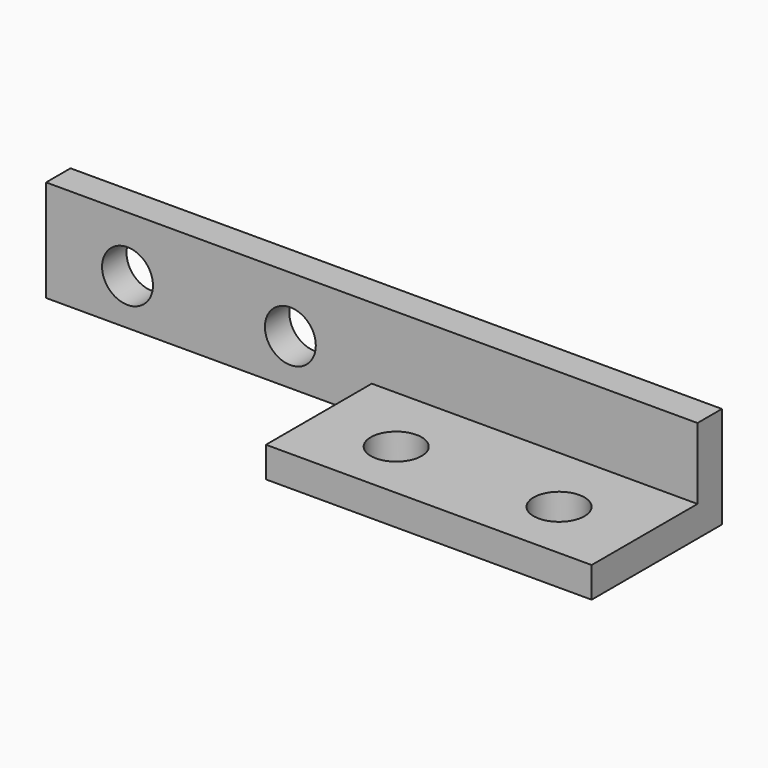
from build123d import *

# Parameters (mm, degrees)
F0_W     = 32
F0_H     = 16
F0_R     = 2.5
F1_DEPTH = 3
F2_W     = 32
F2_H     = 3
F3_DEPTH = 7
F5_DEPTH = 32
F6_R     = 2.5
F7_DEPTH = 3


with BuildPart() as f1:
    # F0 (on Top) → F1 (new body)
    with BuildSketch(Plane.XY):
        Rectangle(F0_W, F0_H)
        with Locations((-8, -2)):
            Circle(F0_R, mode=Mode.SUBTRACT)
        with Locations((8, -2)):
            Circle(F0_R, mode=Mode.SUBTRACT)
    extrude(amount=F1_DEPTH)

    # F2 (on face) → F3 (join)
    with BuildSketch(Plane.XY.offset(3)):
        with Locations((0, 6.5)):
            Rectangle(F2_W, F2_H)
    extrude(amount=F3_DEPTH)

    # F4 (on face) → F5 (join)
    with BuildSketch(Plane(origin=(-16, 0, 0), x_dir=(0, -1, 0), z_dir=(-1, 0, 0))):
        Polygon((-8, 10), (-8, 0), (-5, 0), (-5, 3), (-5, 10), align=None)
    extrude(amount=F5_DEPTH)

    # F6 (on face) → F7 (cut)
    with BuildSketch(Plane.XZ.offset(-5)):
        with Locations((-40, 4.5)):
            Circle(F6_R)
        with Locations((-24, 4.5)):
            Circle(F6_R)
    extrude(amount=-F7_DEPTH, mode=Mode.SUBTRACT)


solid = f1.part
